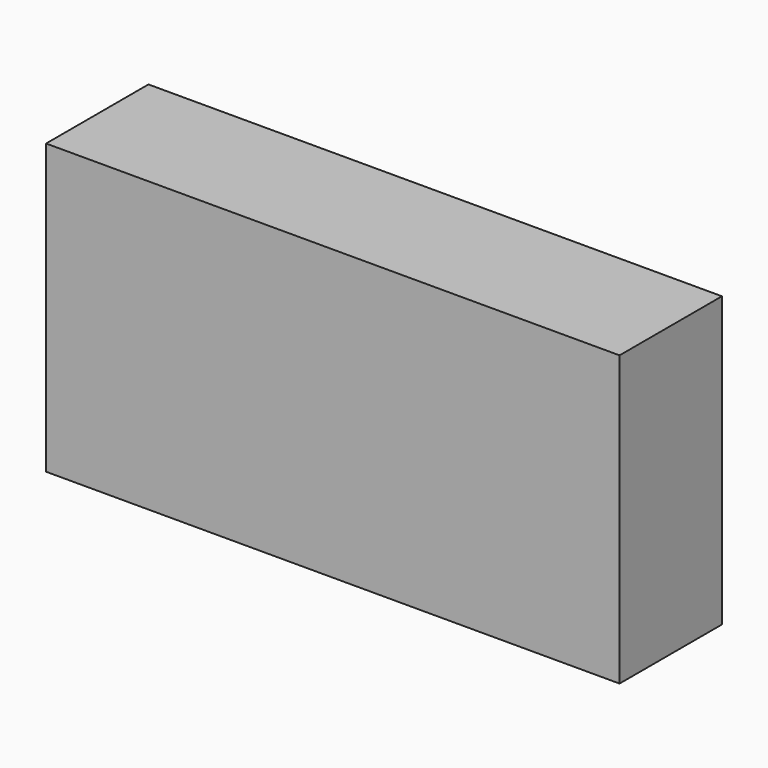
from build123d import *

# Parameters (mm, degrees)
F0_W     = 85.383559
F0_H     = 43.022725
F1_DEPTH = 19.05


with BuildPart() as f1:
    # F0 (on Front) → F1 (new body)
    with BuildSketch(Plane.XZ):
        with Locations((-0.827361, 5e-06)):
            Rectangle(F0_W, F0_H)
    extrude(amount=F1_DEPTH)


solid = f1.part
